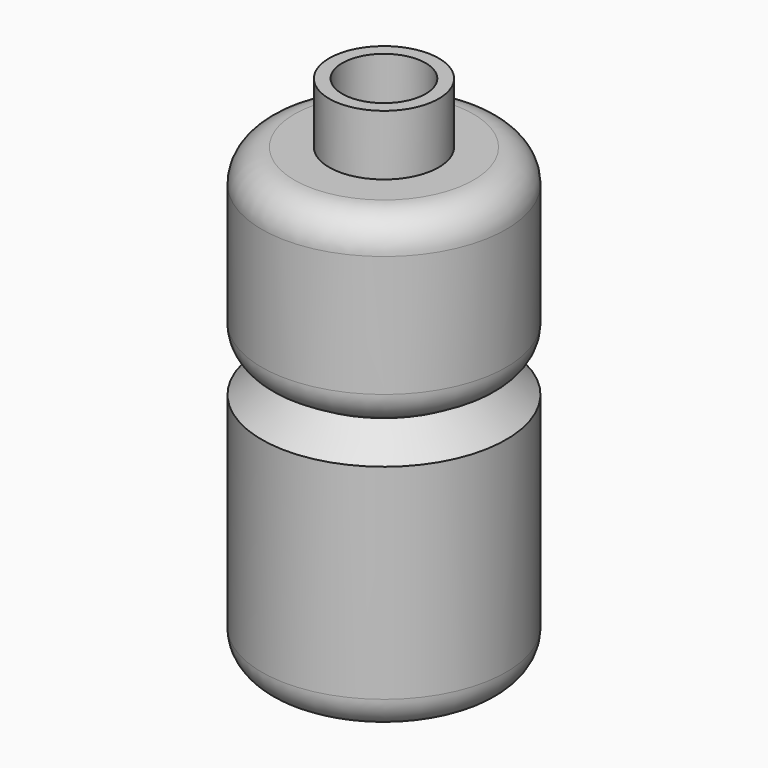
from build123d import *

# Parameters (mm, degrees)
F2_T = -2.54


with BuildPart() as f1:
    # F0 (on Front) → F1 (revolve)
    with BuildSketch(Plane.XZ):
        with BuildLine():
            Line((0, -43.753337115), (0, 56.2932379544))
            Line((0, 56.2932379544), (-10.6316525489, 56.2932379544))
            Line((-10.6316525489, 56.2932379544), (-10.6316525489, 44.5711575449))
            Line((-10.6316525489, 44.5711575449), (-17.3667626619, 44.5711575449))
            ThreePointArc((-17.3667626619, 44.5711575449), (-21.8568907225, 42.7112856054), (-23.7167626619, 38.2211575449))
            Line((-23.7167626619, 38.2211575449), (-23.7167626619, 14.6640635948))
            ThreePointArc((-23.7167626619, 14.6640635948), (-22.8820023854, 11.516901255), (-20.5971939083, 9.1971802082))
            Line((-20.5971939083, 9.1971802082), (-17.7194215357, 7.4966782704))
            Line((-17.7194215357, 7.4966782704), (-23.7167626619, 2.3171550129))
            Line((-23.7167626619, 2.3171550129), (-23.7167626619, -37.403337115))
            ThreePointArc((-23.7167626619, -37.403337115), (-21.8568907225, -41.8934651756), (-17.3667626619, -43.753337115))
            Line((-17.3667626619, -43.753337115), (0, -43.753337115))
        make_face()
    revolve(axis=Axis((0, 0, 6.2699504197), (0, 0, -1)))

    # F2
    f2_openings = [f1.faces().sort_by_distance(p)[0] for p in [
        (0, 0, 56.293238),
    ]]
    offset(amount=F2_T, openings=f2_openings, kind=Kind.INTERSECTION)


solid = f1.part
